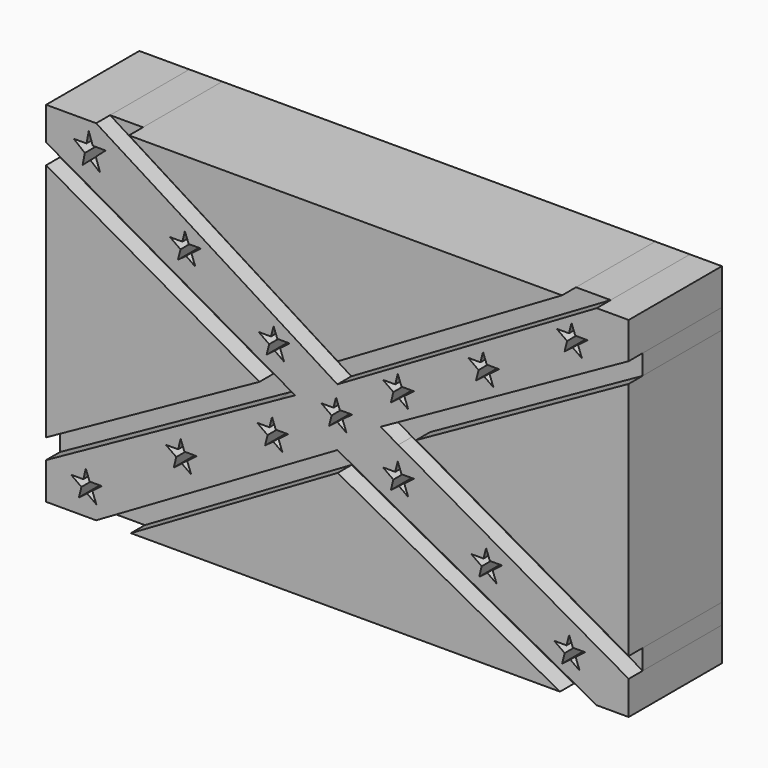
from build123d import *

# Parameters (mm, degrees)
F1_DEPTH = 25.4
F2_DEPTH = 21.59


with BuildPart() as f1:
    # F0 (on Front) → F1 (new body)
    with BuildSketch(Plane.XZ):
        Polygon((67.2406361813, 45.6136292726), (-27.1541153016, 45.6136292726), (18.3407122717, 17.0576236145), align=None)
    extrude(amount=F1_DEPTH)


with BuildPart() as f1b:
    # F0 (on Front) → F1, piece 2 (new body)
    with BuildSketch(Plane.XZ):
        Polygon((1.2708768299, 7.5566150932), (-45.230493634, 34.0058136454), (-45.230493634, -18.2168718115), align=None)
    extrude(amount=F1_DEPTH)


with BuildPart() as f1c:
    # F0 (on Front) → F1, piece 3 (new body)
    with BuildSketch(Plane.XZ):
        Polygon((18.3367739476, -4.3683992196), (-26.742480951, -30.5863707274), (66.7900213172, -30.5863707274), align=None)
    extrude(amount=F1_DEPTH)


with BuildPart() as f1d:
    # F0 (on Front) → F1, piece 4 (new body)
    with BuildSketch(Plane.XZ):
        Polygon((81.769506366, -18.8729416313), (81.769506366, 33.3428501977), (35.4279363847, 7.4821938931), align=None)
    extrude(amount=F1_DEPTH)


with BuildPart() as f1e:
    # F0 (on Front) → F1, piece 5 (new body)
    with BuildSketch(Plane.XZ):
        Polygon((-34.3207865953, 45.6136292726), (-45.230493634, 45.6136292726), (-45.230493634, 38.3889935911), (5.1738525709, 9.719847986), (9.0526919812, 7.5136292726), (5.1497162403, 5.3503963798), (-45.230493634, -22.5729458034), (-45.230493634, -30.5863707274), (-34.3207865953, -30.5863707274), (18.269506366, 0), (74.79596138, -30.5863707274), (81.769506366, -30.5863707274), (81.769506366, -23.2559926808), (31.5379739839, 5.3114219334), (27.6657212526, 7.5136292726), (31.5556836533, 9.6844012323), (81.769506366, 37.7059467137), (81.769506366, 45.6136292726), (74.79596138, 45.6136292726), (18.269506366, 12.6039711758), align=None)
        Polygon((-37.5212950848, -25.216258102), (-39.8011802219, -23.6069273204), (-37.1160270753, -23.6069273204), (-36.5645839253, -21.4171309024), (-35.7434101848, -23.6069273204), (-33.0536356548, -23.6069273204), (-35.1478349655, -25.1951277433), (-34.2826126495, -27.502387017), (-36.3064478076, -26.0737974079), (-38.0749991516, -27.4150326848), align=None, mode=Mode.SUBTRACT)
        Polygon((-16.8484745763, -12.7540668183), (-19.1283597134, -11.1447360367), (-16.4432065668, -11.1447360367), (-15.8917634169, -8.9549396187), (-15.0705896763, -11.1447360367), (-12.3808151463, -11.1447360367), (-14.475014457, -12.7329364596), (-13.6097921411, -15.0401957333), (-15.6336272992, -13.6116061242), (-17.4021786431, -14.9528414011), align=None, mode=Mode.SUBTRACT)
        Polygon((3.0586814292, -2.0646431659), (0.7787962921, -0.4553123843), (3.4639494387, -0.4553123843), (4.0153925886, 1.7344840337), (4.8365663292, -0.4553123843), (7.5263408592, -0.4553123843), (5.4321415485, -2.0435128072), (6.2973638644, -4.3507720809), (4.2735287063, -2.9221824718), (2.5049773624, -4.2634177487), align=None, mode=Mode.SUBTRACT)
        Polygon((17.0153921254, 6.2425821378), (14.7355069883, 7.8519129194), (17.4206601349, 7.8519129194), (17.9721032849, 10.0417093374), (18.7932770254, 7.8519129194), (21.4830515554, 7.8519129194), (19.3888522447, 6.2637124965), (20.2540745607, 3.9564532228), (18.2302394026, 5.3850428319), (16.4616880586, 4.043807555), align=None, mode=Mode.SUBTRACT)
        Polygon((67.82002391, -22.8443955713), (65.5401387729, -21.2350647897), (68.2252919195, -21.2350647897), (68.7767350694, -19.0452683717), (69.5979088099, -21.2350647897), (72.28768334, -21.2350647897), (70.1934840293, -22.8232652126), (71.0587063452, -25.1305244863), (69.0348711871, -23.7019348772), (67.2663198432, -25.0431701541), align=None, mode=Mode.SUBTRACT)
        Polygon((30.4701851465, -1.6972451414), (28.1903000094, -0.0879143598), (30.875453156, -0.0879143598), (31.4268963059, 2.1018820582), (32.2480700465, -0.0879143598), (34.9378445765, -0.0879143598), (32.8436452658, -1.6761147827), (33.7088675818, -3.9833740564), (31.6850324236, -2.5547844473), (29.9164810797, -3.8960197242), align=None, mode=Mode.SUBTRACT)
        Polygon((49.7262181498, -12.0713850193), (47.4463330127, -10.4620542377), (50.1314861593, -10.4620542377), (50.6829293093, -8.2722578198), (51.5041030498, -10.4620542377), (54.1938775798, -10.4620542377), (52.0996782692, -12.0502546606), (52.9649005851, -14.3575139344), (50.941065427, -12.9289243253), (49.1725140831, -14.2701596022), align=None, mode=Mode.SUBTRACT)
        Polygon((3.3984758675, 15.4738510318), (1.1185907304, 17.0831818134), (3.803743877, 17.0831818134), (4.355187027, 19.2729782313), (5.1763607675, 17.0831818134), (7.8661352975, 17.0831818134), (5.7719359869, 15.4949813904), (6.6371583028, 13.1877221167), (4.6133231447, 14.6163117258), (2.8447718008, 13.2750764489), align=None, mode=Mode.SUBTRACT)
        Polygon((-15.9308060868, 27.3927824862), (-18.2106912239, 29.0021132678), (-15.5255380773, 29.0021132678), (-14.9740949273, 31.1919096857), (-14.1529211868, 29.0021132678), (-11.4631466568, 29.0021132678), (-13.5573459674, 27.4139128449), (-12.6921236515, 25.1066535711), (-14.7159588096, 26.5352431802), (-16.4845101535, 25.1940079033), align=None, mode=Mode.SUBTRACT)
        Polygon((-36.7880752025, 39.1067933629), (-39.1906201839, 41.0541184247), (-36.4155443328, 41.0541184247), (-35.9304584563, 43.5898005962), (-35.056819365, 41.0541184247), (-32.2476811707, 41.0541184247), (-34.4035358801, 39.1580044548), (-33.4551483393, 36.4053696394), (-35.5774352806, 38.1255382859), (-37.258669734, 36.646861583), align=None, mode=Mode.SUBTRACT)
        Polygon((30.4760748304, 15.0996912561), (28.1961896933, 16.7090220377), (30.88134284, 16.7090220377), (31.4327859899, 18.8988184556), (32.2539597304, 16.7090220377), (34.9437342605, 16.7090220377), (32.8495349498, 15.1208216148), (33.7147572657, 12.813562341), (31.6909221076, 14.2421519501), (29.9223707637, 12.9009166732), align=None, mode=Mode.SUBTRACT)
        Polygon((49.0497687616, 25.3719920582), (46.7698836244, 26.9813228399), (49.4550367711, 26.9813228399), (50.006479921, 29.1711192578), (50.8276536615, 26.9813228399), (53.5174281916, 26.9813228399), (51.4232288809, 25.3931224169), (52.2884511968, 23.0858631432), (50.2646160387, 24.5144527523), (48.4960646948, 23.1732174754), align=None, mode=Mode.SUBTRACT)
        Polygon((68.3447161473, 37.2122405387), (66.0648310102, 38.8215713203), (68.7499841568, 38.8215713203), (69.3014273068, 41.0113677382), (70.1226010473, 38.8215713203), (72.8123755774, 38.8215713203), (70.7181762667, 37.2333708974), (71.5833985826, 34.9261116236), (69.5595634245, 36.3547012328), (67.7910120806, 35.0134659559), align=None, mode=Mode.SUBTRACT)
    extrude(amount=F1_DEPTH)


with BuildPart() as f2:
    # F0 (on Front) → F2 (new body)
    with BuildSketch(Plane.XZ):
        Polygon((-27.1541153016, 45.6136292726), (-34.3207865953, 45.6136292726), (18.269506366, 12.6039711758), (74.79596138, 45.6136292726), (67.2406361813, 45.6136292726), (18.3407122717, 17.0576236145), align=None)
    extrude(amount=F2_DEPTH)


with BuildPart() as f2b:
    # F0 (on Front) → F2, piece 2 (new body)
    with BuildSketch(Plane.XZ):
        Polygon((5.1738525709, 9.719847986), (-45.230493634, 38.3889935911), (-45.230493634, 34.0058136454), (1.2708768299, 7.5566150932), align=None)
        Polygon((1.2708768299, 7.5566150932), (-45.230493634, -18.2168718115), (-45.230493634, -22.5729458034), (5.1497162403, 5.3503963798), align=None)
        Polygon((9.0526919812, 7.5136292726), (5.1738525709, 9.719847986), (1.2708768299, 7.5566150932), (5.1497162403, 5.3503963798), align=None)
    extrude(amount=F2_DEPTH)


with BuildPart() as f2c:
    # F0 (on Front) → F2, piece 3 (new body)
    with BuildSketch(Plane.XZ):
        Polygon((18.269506366, 0), (-34.3207865953, -30.5863707274), (-26.742480951, -30.5863707274), (18.3367739476, -4.3683992196), (66.7900213172, -30.5863707274), (74.79596138, -30.5863707274), align=None)
    extrude(amount=F2_DEPTH)


with BuildPart() as f2d:
    # F0 (on Front) → F2, piece 4 (new body)
    with BuildSketch(Plane.XZ):
        Polygon((81.769506366, -23.2559926808), (81.769506366, -18.8729416313), (35.4279363847, 7.4821938931), (31.5379739839, 5.3114219334), align=None)
        Polygon((81.769506366, 33.3428501977), (81.769506366, 37.7059467137), (31.5556836533, 9.6844012323), (35.4279363847, 7.4821938931), align=None)
        Polygon((35.4279363847, 7.4821938931), (31.5556836533, 9.6844012323), (27.6657212526, 7.5136292726), (31.5379739839, 5.3114219334), align=None)
    extrude(amount=F2_DEPTH)


solid = Compound([f1.part, f1b.part, f1c.part, f1d.part, f1e.part, f2.part, f2b.part, f2c.part, f2d.part])
